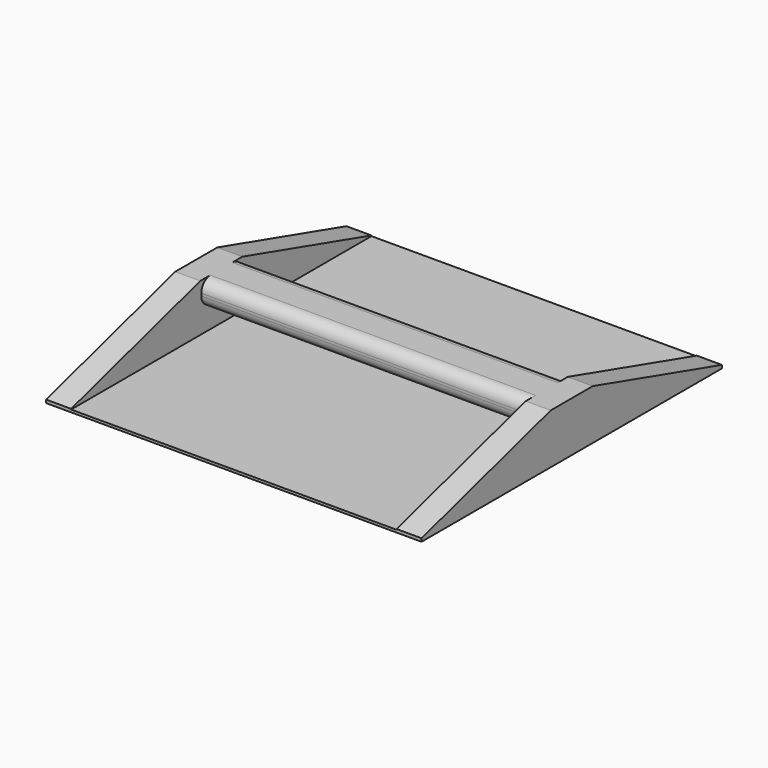
from build123d import *

# Parameters (mm, degrees)
BOX001_W        = 2
BOX001_H        = 30
BOX001_DEPTH    = 4
BOX002_W        = 2
BOX002_H        = 30
BOX002_DEPTH    = 4
BOX003_W        = 26
BOX003_H        = 4
BOX003_DEPTH    = 2
FILLET_R        = 0.9
BOX_W           = 30
BOX_H           = 30
BOX_DEPTH       = 0.2
CHAMFER_1_SIZE2 = 3.75
CHAMFER_1_SIZE  = 12.9
CHAMFER_2_SIZE2 = 3.75
CHAMFER_2_SIZE  = 12.9
CHAMFER_3_SIZE2 = 12.9
CHAMFER_3_SIZE  = 3.75
CHAMFER_4_SIZE2 = 12.9
CHAMFER_4_SIZE  = 3.75


with BuildPart() as box001:
    # Box001 → Box001 (new body)
    with BuildSketch(Plane.XY):
        with Locations((1, 15)):
            Rectangle(BOX001_W, BOX001_H)
    extrude(amount=BOX001_DEPTH)


with BuildPart() as box002:
    # Box002 → Box002 (new body)
    with BuildSketch(Plane(origin=(28, 0, 0), x_dir=(1, 0, 0), z_dir=(0, 0, 1))):
        with Locations((1, 15)):
            Rectangle(BOX002_W, BOX002_H)
    extrude(amount=BOX002_DEPTH)


with BuildPart() as fillet_body:
    # Box003 → Box003 (new body)
    with BuildSketch(Plane(origin=(2, 13, 2), x_dir=(1, 0, 0), z_dir=(0, 0, 1))):
        with Locations((13, 2)):
            Rectangle(BOX003_W, BOX003_H)
    extrude(amount=BOX003_DEPTH)

    # Fillet
    fillet_edges = [fillet_body.edges().sort_by_distance(p)[0] for p in [
        (15, 13, 2),
        (15, 13, 4),
        (15, 17, 2),
        (15, 17, 4),
    ]]
    fillet(fillet_edges, radius=FILLET_R)


with BuildPart() as strapassembly:
    # Box → Box (new body)
    with BuildSketch(Plane.XY):
        with Locations((15, 15)):
            Rectangle(BOX_W, BOX_H)
    extrude(amount=BOX_DEPTH)

    # Fusion: union Box001, Box002, Fillet body
    add(box001.part)
    add(box002.part)
    add(fillet_body.part)

    # Chamfer 1
    chamfer_1_edges = [strapassembly.edges().sort_by_distance(p)[0] for p in [
        (29, 30, 4),
    ]]
    chamfer_1_side = strapassembly.faces().sort_by_distance((29, 15, 4))[0]
    chamfer(chamfer_1_edges, length=CHAMFER_1_SIZE, length2=CHAMFER_1_SIZE2, reference=chamfer_1_side)

    # Chamfer 2
    chamfer_2_edges = [strapassembly.edges().sort_by_distance(p)[0] for p in [
        (1, 30, 4),
    ]]
    chamfer_2_side = strapassembly.faces().sort_by_distance((1, 15, 4))[0]
    chamfer(chamfer_2_edges, length=CHAMFER_2_SIZE, length2=CHAMFER_2_SIZE2, reference=chamfer_2_side)

    # Chamfer 3
    chamfer_3_edges = [strapassembly.edges().sort_by_distance(p)[0] for p in [
        (29, 0, 4),
    ]]
    chamfer_3_side = strapassembly.faces().sort_by_distance((29, 0, 2.1))[0]
    chamfer(chamfer_3_edges, length=CHAMFER_3_SIZE, length2=CHAMFER_3_SIZE2, reference=chamfer_3_side)

    # Chamfer 4
    chamfer_4_edges = [strapassembly.edges().sort_by_distance(p)[0] for p in [
        (1, 0, 4),
    ]]
    chamfer_4_side = strapassembly.faces().sort_by_distance((1, 0, 2.1))[0]
    chamfer(chamfer_4_edges, length=CHAMFER_4_SIZE, length2=CHAMFER_4_SIZE2, reference=chamfer_4_side)


solid = strapassembly.part
